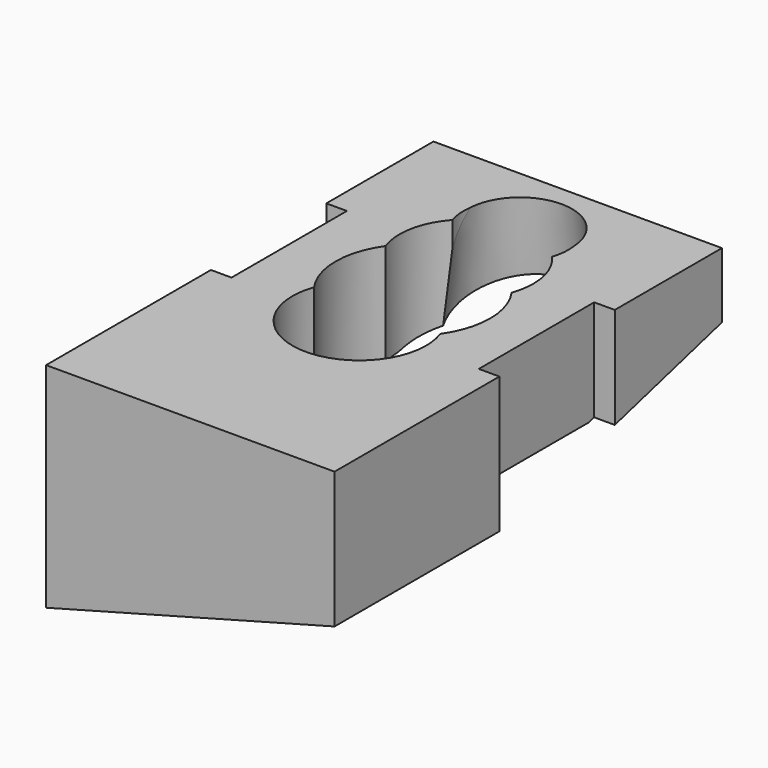
from build123d import *

# Parameters (mm, degrees)
BOX007_W                  = 30
BOX007_H                  = 20
BOX007_DEPTH              = 10
BOX005_W                  = 12
BOX005_H                  = 60
BOX005_DEPTH              = 30
BOX006_W                  = 12
BOX006_H                  = 60
BOX006_DEPTH              = 30
BOX004_W                  = 50
BOX004_H                  = 30
BOX004_DEPTH              = 19
BOX004_PLACEMENT_ANGLE    = 15
CYLINDER012_R             = 5.1
CYLINDER012_DEPTH         = 50
CYLINDER007_R             = 7.5
CYLINDER007_DEPTH         = 70
CYLINDER009_R             = 6.5
CYLINDER009_DEPTH         = 70
CYLINDER010_R             = 7.5
CYLINDER010_DEPTH         = 70
CYLINDER011_R             = 6.5
CYLINDER011_DEPTH         = 70
FUSION007_PLACEMENT_ANGLE = 180
CYLINDER008_R             = 5.1
CYLINDER008_DEPTH         = 70
BOX003_W                  = 57
BOX003_H                  = 59
BOX003_DEPTH              = 20
CYLINDER004_R             = 6.35
CYLINDER004_DEPTH         = 50
BOX_W                     = 40
BOX_H                     = 20
BOX_DEPTH                 = 30
BOX_PLACEMENT_ANGLE       = 15
CYLINDER001_R             = 5
CYLINDER001_DEPTH         = 50
CYLINDER006_R             = 6.35
CYLINDER006_DEPTH         = 50
BOX001_W                  = 40
BOX001_H                  = 20
BOX001_DEPTH              = 30
BOX001_PLACEMENT_ANGLE    = 15
CYLINDER005_R             = 5
CYLINDER005_DEPTH         = 50
FUSION003_PLACEMENT_ANGLE = 180
BOX002_W                  = 24
BOX002_H                  = 39
BOX002_DEPTH              = 10


with BuildPart() as cube007:
    # Box007 → Box007 (new body)
    with BuildSketch(Plane(origin=(-16, 20, 42), x_dir=(1, 0, 0), z_dir=(0, 0, 1))):
        with Locations((15, 10)):
            Rectangle(BOX007_W, BOX007_H)
    extrude(amount=BOX007_DEPTH)


with BuildPart() as cone:
    # Cone → Cone (revolve)
    with BuildSketch(Plane(origin=(0, 13, 52), x_dir=(-1, 0, 0), z_dir=(0, -1, 0))):
        Polygon((0, 0), (5, 0), (6, 10), (0, 10), align=None)
    revolve(axis=Axis((0, 13, 52), (0, 0, -1)))


with BuildPart() as cube005:
    # Box005 → Box005 (new body)
    with BuildSketch(Plane(origin=(14, -29, 23), x_dir=(1, 0, 0), z_dir=(0, 0, 1))):
        with Locations((6, 30)):
            Rectangle(BOX005_W, BOX005_H)
    extrude(amount=BOX005_DEPTH)


with BuildPart() as fusion009:
    # Box006 → Box006 (new body)
    with BuildSketch(Plane(origin=(-26, -29, 23), x_dir=(1, 0, 0), z_dir=(0, 0, 1))):
        with Locations((6, 30)):
            Rectangle(BOX006_W, BOX006_H)
    extrude(amount=BOX006_DEPTH)

    # Fusion009: union Cube005
    add(cube005.part)


with BuildPart() as cube004:
    # Box004 → Box004 (new body)
    with BuildSketch(Plane.XY):
        with Locations((25, 15)):
            Rectangle(BOX004_W, BOX004_H)
    extrude(amount=BOX004_DEPTH)


with BuildPart() as cube004_1:
    # Box004 placement: moved
    add(cube004.part.moved(Location((-24, 7.965926, 22.258819))).rotate(Axis((-24, 7.965926, 22.258819), (1, 0, 0)), BOX004_PLACEMENT_ANGLE))


with BuildPart() as obj1:
    # Cylinder012 → Cylinder012 (new body)
    with BuildSketch(Plane(origin=(0, -12.5, -17), x_dir=(1, 0, 0), z_dir=(0, 0, 1))):
        Circle(CYLINDER012_R)
    extrude(amount=CYLINDER012_DEPTH)


with BuildPart() as obj2:
    # Cylinder007 → Cylinder007 (new body)
    with BuildSketch(Plane.XY):
        Circle(CYLINDER007_R)
    extrude(amount=CYLINDER007_DEPTH)


with BuildPart() as fusion006:
    # Cylinder009 → Cylinder009 (new body)
    with BuildSketch(Plane(origin=(0, 6.5, 0), x_dir=(1, 0, 0), z_dir=(0, 0, 1))):
        Circle(CYLINDER009_R)
    extrude(amount=CYLINDER009_DEPTH)

    # Fusion006: union obj2
    add(obj2.part)


with BuildPart() as obj3:
    # Cylinder010 → Cylinder010 (new body)
    with BuildSketch(Plane.XY):
        Circle(CYLINDER010_R)
    extrude(amount=CYLINDER010_DEPTH)


with BuildPart() as fusion008:
    # Cylinder011 → Cylinder011 (new body)
    with BuildSketch(Plane(origin=(0, 6.5, 0), x_dir=(1, 0, 0), z_dir=(0, 0, 1))):
        Circle(CYLINDER011_R)
    extrude(amount=CYLINDER011_DEPTH)

    # Fusion007: union obj3
    add(obj3.part)


with BuildPart() as fusion008_1:
    # Fusion007 placement: moved
    add(fusion008.part.rotate(Axis((0, 0, 0), (0, 0, 1)), FUSION007_PLACEMENT_ANGLE))

    # Fusion008: union Fusion006
    add(fusion006.part)


with BuildPart() as cylinder008:
    # Cylinder008 → Cylinder008 (new body)
    with BuildSketch(Plane(origin=(0, 12.5, 0), x_dir=(1, 0, 0), z_dir=(0, 0, 1))):
        Circle(CYLINDER008_R)
    extrude(amount=CYLINDER008_DEPTH)


with BuildPart() as cube003:
    # Box003 → Box003 (new body)
    with BuildSketch(Plane(origin=(-29.5, -29, 51.5), x_dir=(1, 0, 0), z_dir=(0, 0, 1))):
        with Locations((28.5, 29.5)):
            Rectangle(BOX003_W, BOX003_H)
    extrude(amount=BOX003_DEPTH)


with BuildPart() as obj4:
    # Cylinder004 → Cylinder004 (new body)
    with BuildSketch(Plane.XY):
        Circle(CYLINDER004_R)
    extrude(amount=CYLINDER004_DEPTH)


with BuildPart() as cube:
    # Box → Box (new body)
    with BuildSketch(Plane.XY):
        with Locations((20, 10)):
            Rectangle(BOX_W, BOX_H)
    extrude(amount=BOX_DEPTH)


with BuildPart() as cube_1:
    # Box placement: moved
    add(cube.part.moved(Location((-19.558238, 7, 39.759763))).rotate(Axis((-19.558238, 7, 39.759763), (0, 1, 0)), BOX_PLACEMENT_ANGLE))


with BuildPart() as fusion001:
    # Cylinder001 → Cylinder001 (new body)
    with BuildSketch(Plane(origin=(0, 12.5, 0), x_dir=(1, 0, 0), z_dir=(0, 0, 1))):
        Circle(CYLINDER001_R)
    extrude(amount=CYLINDER001_DEPTH)

    # Fusion: union Cube
    add(cube_1.part)

    # Fusion001: union obj4
    add(obj4.part)


with BuildPart() as obj5:
    # Cylinder006 → Cylinder006 (new body)
    with BuildSketch(Plane.XY):
        Circle(CYLINDER006_R)
    extrude(amount=CYLINDER006_DEPTH)


with BuildPart() as cube001:
    # Box001 → Box001 (new body)
    with BuildSketch(Plane.XY):
        with Locations((20, 10)):
            Rectangle(BOX001_W, BOX001_H)
    extrude(amount=BOX001_DEPTH)


with BuildPart() as cube001_1:
    # Box001 placement: moved
    add(cube001.part.moved(Location((-19.558238, 7, 39.759763))).rotate(Axis((-19.558238, 7, 39.759763), (0, 1, 0)), BOX001_PLACEMENT_ANGLE))


with BuildPart() as fusion004:
    # Cylinder005 → Cylinder005 (new body)
    with BuildSketch(Plane(origin=(0, 12.5, 0), x_dir=(1, 0, 0), z_dir=(0, 0, 1))):
        Circle(CYLINDER005_R)
    extrude(amount=CYLINDER005_DEPTH)

    # Fusion002: union Cube001
    add(cube001_1.part)

    # Fusion003: union obj5
    add(obj5.part)


with BuildPart() as fusion004_1:
    # Fusion003 placement: moved
    add(fusion004.part.rotate(Axis((0, 0, 0), (0, 0, 1)), FUSION003_PLACEMENT_ANGLE))

    # Fusion004: union Fusion001
    add(fusion001.part)


with BuildPart() as cut007:
    # Box002 → Box002 (new body)
    with BuildSketch(Plane(origin=(-12, -13, 41.5), x_dir=(1, 0, 0), z_dir=(0, 0, 1))):
        with Locations((12, 19.5)):
            Rectangle(BOX002_W, BOX002_H)
    extrude(amount=BOX002_DEPTH)

    # Fusion005: union Fusion004
    add(fusion004_1.part)

    # Cut: cut Cube003
    add(cube003.part, mode=Mode.SUBTRACT)

    # Cut001: cut Cylinder008
    add(cylinder008.part, mode=Mode.SUBTRACT)

    # Cut002: cut Fusion008
    add(fusion008_1.part, mode=Mode.SUBTRACT)

    # Cut003: cut obj1
    add(obj1.part, mode=Mode.SUBTRACT)

    # Cut004: cut Cube004
    add(cube004_1.part, mode=Mode.SUBTRACT)

    # Cut005: cut Fusion009
    add(fusion009.part, mode=Mode.SUBTRACT)

    # Cut006: cut Cone
    add(cone.part, mode=Mode.SUBTRACT)

    # Cut007: cut Cube007
    add(cube007.part, mode=Mode.SUBTRACT)


solid = cut007.part
